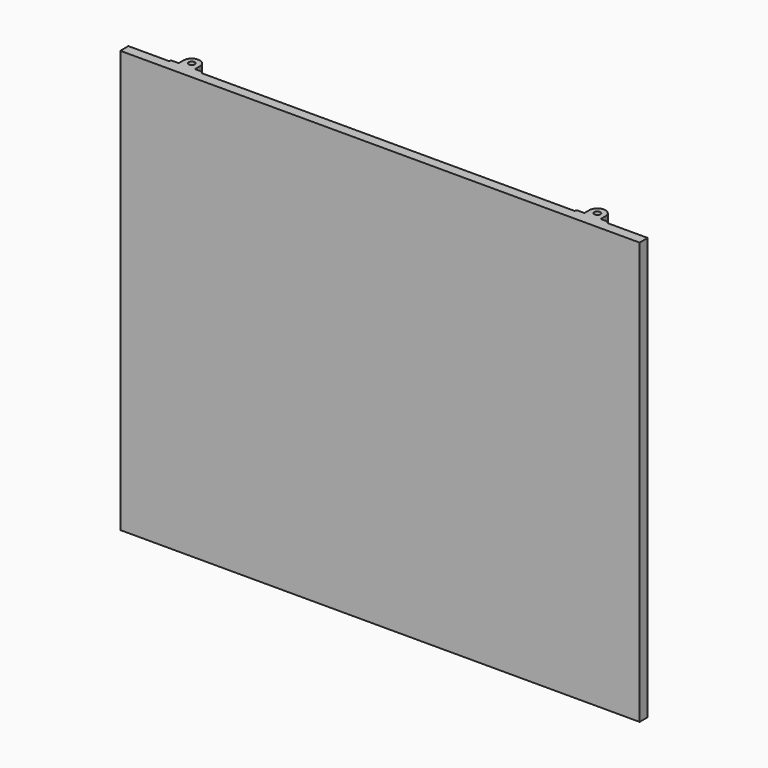
from build123d import *

# Parameters (mm, degrees)
F0_W     = 25.4
F0_H     = 1270
F1_DEPTH = 25.4
F2_W     = 1625.6
F2_H     = 1320.8
F3_DEPTH = 6.35
F4_R     = 9.525
F5_DEPTH = 1320.8
F6_W     = 50.8
F6_H     = 1270
F7_DEPTH = 1625.601


with BuildPart() as f1:
    # F0 (on Front) → F1 (new body)
    with BuildSketch(Plane.XZ):
        with Locations((787.4, 300.803003)):
            Rectangle(F0_W, F0_H)
        Polygon((1600.2, 961.203003), (-25.4, 961.203003), (-25.4, 935.803003), (0, 935.803003), (774.7, 935.803003), (800.1, 935.803003), (1574.8, 935.803003), (1600.2, 935.803003), align=None)
        with Locations((-12.7, 300.803003)):
            Rectangle(F0_W, F0_H)
        Polygon((0, -334.196997), (-25.4, -334.196997), (-25.4, -359.596997), (1600.2, -359.596997), (1600.2, -334.196997), (1574.8, -334.196997), (800.1, -334.196997), (774.7, -334.196997), align=None)
        with Locations((1587.5, 300.803003)):
            Rectangle(F0_W, F0_H)
    extrude(amount=F1_DEPTH)

    # F2 (on face) → F3 (join)
    with BuildSketch(Plane.XZ.offset(25.4)):
        with Locations((787.4, 300.803003)):
            Rectangle(F2_W, F2_H)
    extrude(amount=F3_DEPTH)

    # F4 (on face) → F5 (join)
    with BuildSketch(Plane(origin=(0, 0, -359.596997), x_dir=(1, 0, 0), z_dir=(0, 0, -1))):
        with BuildLine():
            Line((177.8, 0), (127, 0))
            Line((127, 0), (127, -6.35))
            Line((127, -6.35), (127, -25.4))
            ThreePointArc((127, -25.4), (134.439488, -43.360512), (152.4, -50.8))
            ThreePointArc((152.4, -50.8), (170.360512, -43.360512), (177.8, -25.4))
            Line((177.8, -25.4), (177.8, -6.35))
            Line((177.8, -6.35), (177.8, 0))
        make_face()
        with Locations((152.4, -25.4)):
            Circle(F4_R, mode=Mode.SUBTRACT)
        with BuildLine():
            Line((127, -6.35), (127, 0))
            Line((127, 0), (101.6, 0))
            ThreePointArc((101.6, 0), (103.459872, -4.490128), (107.95, -6.35))
            Line((107.95, -6.35), (127, -6.35))
        make_face()
        with BuildLine():
            Line((203.2, 0), (177.8, 0))
            Line((177.8, 0), (177.8, -6.35))
            Line((177.8, -6.35), (196.85, -6.35))
            ThreePointArc((196.85, -6.35), (201.340128, -4.490128), (203.2, 0))
        make_face()
        with BuildLine():
            Line((1447.8, -6.35), (1447.8, 0))
            Line((1447.8, 0), (1397, 0))
            Line((1397, 0), (1397, -6.35))
            Line((1397, -6.35), (1397, -25.4))
            ThreePointArc((1397, -25.4), (1404.439488, -43.360512), (1422.4, -50.8))
            ThreePointArc((1422.4, -50.8), (1440.360512, -43.360512), (1447.8, -25.4))
            Line((1447.8, -25.4), (1447.8, -6.35))
        make_face()
        with Locations((1422.4, -25.4)):
            Circle(F4_R, mode=Mode.SUBTRACT)
        with BuildLine():
            Line((1473.2, 0), (1447.8, 0))
            Line((1447.8, 0), (1447.8, -6.35))
            Line((1447.8, -6.35), (1466.85, -6.35))
            ThreePointArc((1466.85, -6.35), (1471.340128, -4.490128), (1473.2, 0))
        make_face()
        with BuildLine():
            Line((1397, -6.35), (1397, 0))
            Line((1397, 0), (1371.6, 0))
            ThreePointArc((1371.6, 0), (1373.459872, -4.490128), (1377.95, -6.35))
            Line((1377.95, -6.35), (1397, -6.35))
        make_face()
    extrude(amount=-F5_DEPTH)

    # F6 (on face) → F7 (cut, through all)
    with BuildSketch(Plane.YZ.offset(1600.2)):
        with Locations((25.4, 300.803003)):
            Rectangle(F6_W, F6_H)
    extrude(amount=-F7_DEPTH, mode=Mode.SUBTRACT)


solid = f1.part
